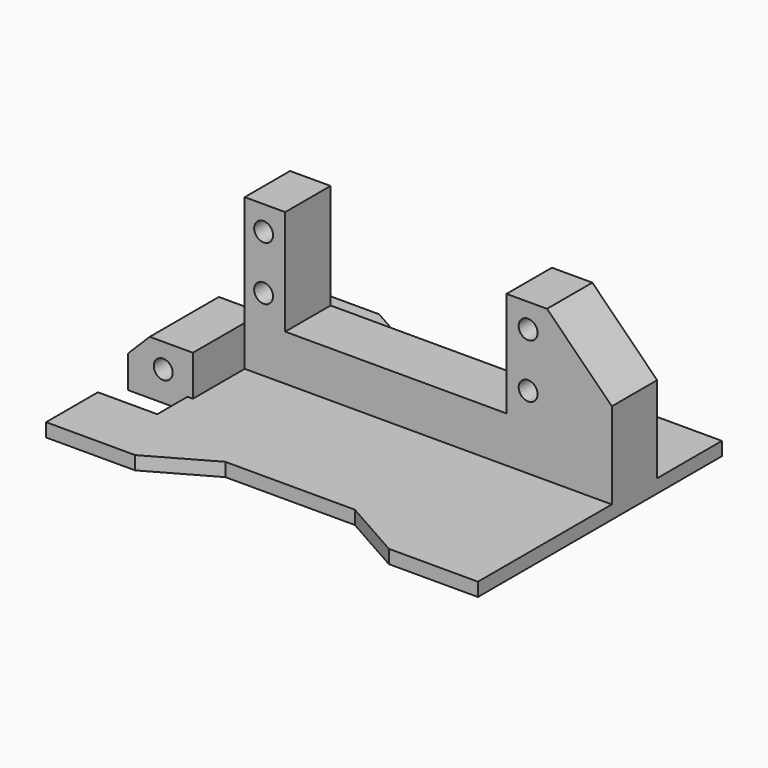
from build123d import *

# Parameters (mm, degrees)
CYLINDER016_R             = 1.75
CYLINDER016_DEPTH         = 70
CYLINDER016_ROLL_ANGLE    = -90
CYLINDER026_R             = 1.75
CYLINDER026_DEPTH         = 24.5
CYLINDER026_PITCH_ANGLE   = 90
CYLINDER027_R             = 3
CYLINDER027_DEPTH         = 21.5
CYLINDER027_PITCH_ANGLE   = 90
FUSION007_PITCH_ANGLE     = -90
FUSION007_PLACEMENT_ANGLE = -180
FUSION008_PITCH_ANGLE     = -90
FUSION008_PLACEMENT_ANGLE = -180
FUSION005_PITCH_ANGLE     = -90
FUSION005_PLACEMENT_ANGLE = -180
FUSION006_PITCH_ANGLE     = -90
FUSION006_PLACEMENT_ANGLE = -180
BOX021_W                  = 37
BOX021_H                  = 41
BOX021_DEPTH              = 25
BOX021_PITCH_ANGLE        = -90
BOX021_PLACEMENT_ANGLE    = -180
FUSION012_PITCH_ANGLE     = -90
FUSION012_PLACEMENT_ANGLE = -90
BOX007_W                  = 68
BOX007_H                  = 10.5
BOX007_DEPTH              = 29
CHAMFER_SIZE              = 12
BOX057_W                  = 12
BOX057_H                  = 16
BOX057_DEPTH              = 10
PAD005_DEPTH              = 2.5
CHAMFER009_SIZE           = 4


with BuildPart() as cylinder016:
    # Cylinder016 → Cylinder016 (new body)
    with BuildSketch(Plane.XY):
        Circle(CYLINDER016_R)
    extrude(amount=CYLINDER016_DEPTH)


with BuildPart() as cylinder016_1:
    # Cylinder016 roll: moved
    add(cylinder016.part.rotate(Axis((0, 0, 0), (1, 0, 0)), CYLINDER016_ROLL_ANGLE))


with BuildPart() as cylinder016_2:
    # Cylinder016 placement: moved
    add(cylinder016_1.part.moved(Location((-40.5, -5, -149.5))))


with BuildPart() as joint_d010:
    # Cylinder026 → Cylinder026 (new body)
    with BuildSketch(Plane.XY):
        Circle(CYLINDER026_R)
    extrude(amount=CYLINDER026_DEPTH)


with BuildPart() as joint_d010_1:
    # Cylinder026 pitch: moved
    add(joint_d010.part.rotate(Axis((0, 0, 0), (0, 1, 0)), CYLINDER026_PITCH_ANGLE))


with BuildPart() as joint_d010_2:
    # Cylinder026 placement: moved
    add(joint_d010_1.part.moved(Location((16, -24.5, 7))))


with BuildPart() as joint_d011:
    # Cylinder027 → Cylinder027 (new body)
    with BuildSketch(Plane.XY):
        Circle(CYLINDER027_R)
    extrude(amount=CYLINDER027_DEPTH)


with BuildPart() as joint_d011_1:
    # Cylinder027 pitch: moved
    add(joint_d011.part.rotate(Axis((0, 0, 0), (0, 1, 0)), CYLINDER027_PITCH_ANGLE))


with BuildPart() as joint_d011_2:
    # Cylinder027 placement: moved
    add(joint_d011_1.part.moved(Location((37, -24.5, 7))))


with BuildPart() as fusion007:
    # Fusion007 base: copy of Joint-D011
    add(joint_d011_2.part)

    # Fusion007: union Joint-D010
    add(joint_d010_2.part)


with BuildPart() as fusion007_1:
    # Fusion007 pitch: moved
    add(fusion007.part.rotate(Axis((0, 0, 0), (0, 1, 0)), FUSION007_PITCH_ANGLE))


with BuildPart() as fusion007_2:
    # Fusion007 placement: moved
    add(fusion007_1.part.moved(Location((-12, -39.5, 0))).rotate(Axis((-12, -39.5, 0), (0, 0, 1)), FUSION007_PLACEMENT_ANGLE))


with BuildPart() as fusion008:
    # Fusion008 base: copy of Joint-D011
    add(joint_d011_2.part)

    # Fusion008: union Joint-D010
    add(joint_d010_2.part)


with BuildPart() as fusion008_1:
    # Fusion008 pitch: moved
    add(fusion008.part.rotate(Axis((0, 0, 0), (0, 1, 0)), FUSION008_PITCH_ANGLE))


with BuildPart() as fusion008_2:
    # Fusion008 placement: moved
    add(fusion008_1.part.moved(Location((-2, -39.5, 0))).rotate(Axis((-2, -39.5, 0), (0, 0, 1)), FUSION008_PLACEMENT_ANGLE))


with BuildPart() as fusion005:
    # Fusion005 base: copy of Joint-D011
    add(joint_d011_2.part)

    # Fusion005: union Joint-D010
    add(joint_d010_2.part)


with BuildPart() as fusion005_1:
    # Fusion005 pitch: moved
    add(fusion005.part.rotate(Axis((0, 0, 0), (0, 1, 0)), FUSION005_PITCH_ANGLE))


with BuildPart() as fusion005_2:
    # Fusion005 placement: moved
    add(fusion005_1.part.moved(Location((-12, 9.5, 0))).rotate(Axis((-12, 9.5, 0), (0, 0, 1)), FUSION005_PLACEMENT_ANGLE))


with BuildPart() as fusion006:
    # Fusion006 base: copy of Joint-D011
    add(joint_d011_2.part)

    # Fusion006: union Joint-D010
    add(joint_d010_2.part)


with BuildPart() as fusion006_1:
    # Fusion006 pitch: moved
    add(fusion006.part.rotate(Axis((0, 0, 0), (0, 1, 0)), FUSION006_PITCH_ANGLE))


with BuildPart() as fusion006_2:
    # Fusion006 placement: moved
    add(fusion006_1.part.moved(Location((-2, 9.5, 0))).rotate(Axis((-2, 9.5, 0), (0, 0, 1)), FUSION006_PLACEMENT_ANGLE))


with BuildPart() as fusion012:
    # Box021 → Box021 (new body)
    with BuildSketch(Plane.XY):
        with Locations((18.5, 20.5)):
            Rectangle(BOX021_W, BOX021_H)
    extrude(amount=BOX021_DEPTH)


with BuildPart() as fusion012_1:
    # Box021 pitch: moved
    add(fusion012.part.rotate(Axis((0, 0, 0), (0, 1, 0)), BOX021_PITCH_ANGLE))


with BuildPart() as fusion012_2:
    # Box021 placement: moved
    add(fusion012_1.part.moved(Location((-10, 30, -1))).rotate(Axis((-10, 30, -1), (0, 0, 1)), BOX021_PLACEMENT_ANGLE))

    # Fusion012: union Fusion007, Fusion008, Fusion005, Fusion006
    add(fusion007_2.part)
    add(fusion008_2.part)
    add(fusion005_2.part)
    add(fusion006_2.part)


with BuildPart() as fusion012_3:
    # Fusion012 pitch: moved
    add(fusion012_2.part.rotate(Axis((0, 0, 0), (0, 1, 0)), FUSION012_PITCH_ANGLE))


with BuildPart() as fusion012_4:
    # Fusion012 placement: moved
    add(fusion012_3.part.moved(Location((-16.5, -5, -134))).rotate(Axis((-16.5, -5, -134), (0, 0, 1)), FUSION012_PLACEMENT_ANGLE))


with BuildPart() as chamfer_body:
    # Box007 → Box007 (new body)
    with BuildSketch(Plane(origin=(-35, 18, -153.5), x_dir=(1, 0, 0), z_dir=(0, 0, 1))):
        with Locations((34, 5.25)):
            Rectangle(BOX007_W, BOX007_H)
    extrude(amount=BOX007_DEPTH)

    # Chamfer
    chamfer_edges = [chamfer_body.edges().sort_by_distance(p)[0] for p in [
        (33, 23.25, -124.5),
    ]]
    chamfer(chamfer_edges, length=CHAMFER_SIZE)


with BuildPart() as cube060:
    # Box057 → Box057 (new body)
    with BuildSketch(Plane(origin=(-47, 24.5, -155), x_dir=(1, 0, 0), z_dir=(0, 0, 1))):
        with Locations((6, 8)):
            Rectangle(BOX057_W, BOX057_H)
    extrude(amount=BOX057_DEPTH)


with BuildPart() as chamfer009:
    # Sketch007 → Pad005 (new body)
    with BuildSketch(Plane(origin=(0, 0, -155), x_dir=(1, 0, 0), z_dir=(0, 0, -1))):
        Polygon((-47, -17.5), (-47, -3), (-30.5, -3), (-19, -9.5), (5, -9.5), (16.5, -3), (33, -3), (33, -59.5), (16.5, -59.5), (5, -53), (-19, -53), (-30.5, -59.5), (-47, -59.5), (-47, -47.5), (-36, -47.5), (-36, -17.5), align=None)
    extrude(amount=-PAD005_DEPTH)

    # Fusion: union Chamfer body, Cube060
    add(chamfer_body.part)
    add(cube060.part)

    # Cut083: cut Fusion012
    add(fusion012_4.part, mode=Mode.SUBTRACT)

    # Cut084: cut Cylinder016
    add(cylinder016_2.part, mode=Mode.SUBTRACT)

    # Chamfer009
    chamfer009_edges = [chamfer009.edges().sort_by_distance(p)[0] for p in [
        (-47, 32.5, -145),
    ]]
    chamfer(chamfer009_edges, length=CHAMFER009_SIZE)


with BuildPart() as chamfer009_1:
    # Chamfer009 placement: moved
    add(chamfer009.part.moved(Location((0, 0, 94))))


with BuildPart() as part_mirroring031:
    # Part__Mirroring031: instance of Chamfer009
    add(chamfer009_1.part.mirror(Plane(origin=(0, 0, 0), x_dir=(1, 0, 0), z_dir=(0, 1, 0))))


solid = part_mirroring031.part
